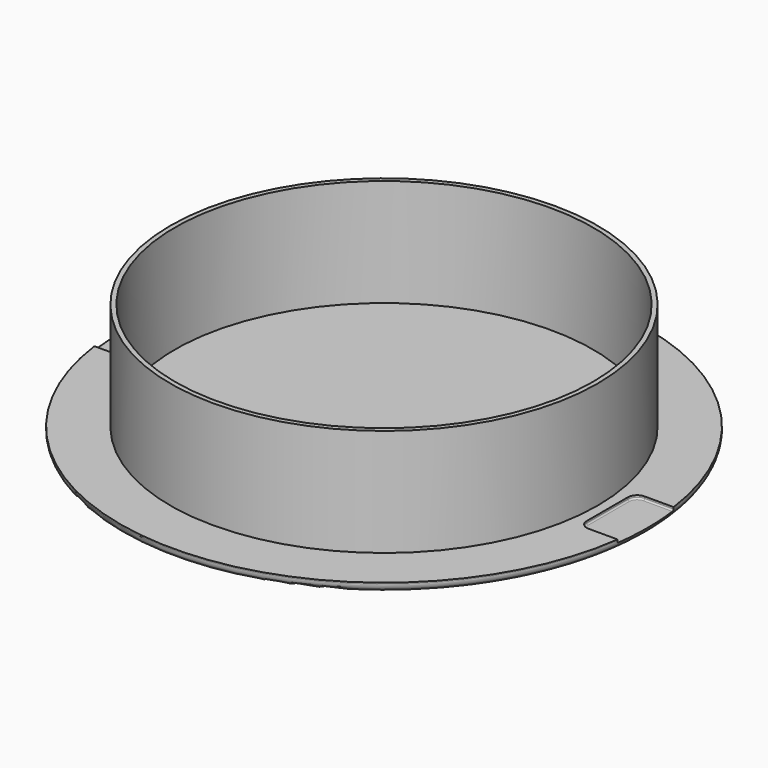
from build123d import *

# Parameters (mm, degrees)
SKETCH_R      = 56.5
PAD_DEPTH     = 2
FILLET_R      = 1.7
SKETCH001_R   = 45.75
SKETCH001_R_2 = 44.75
PAD001_DEPTH  = 23
POCKET_DEPTH  = 0.7
FILLET001_R   = 0.3


with BuildPart() as part:
    # Sketch → Pad (new body)
    with BuildSketch(Plane.XY):
        Circle(SKETCH_R)
    extrude(amount=PAD_DEPTH)

    # Fillet
    fillet_edges = [part.edges().sort_by_distance(p)[0] for p in [
        (-56.5, 0, 0),
    ]]
    fillet(fillet_edges, radius=FILLET_R)

    # Sketch001 (on Face3 of Fillet) → Pad001 (join)
    with BuildSketch(Plane.XY.offset(2)):
        Circle(SKETCH001_R)
        Circle(SKETCH001_R_2, mode=Mode.SUBTRACT)
    extrude(amount=PAD001_DEPTH)

    # Sketch002 (on Face3 of Pad001) → Pocket (cut)
    with BuildSketch(Plane.XY.offset(2)):
        with BuildLine():
            Line((-64, 7.5), (-49.8, 7.5))
            ThreePointArc((-47.8, 5.5), (-48.385786, 6.914214), (-49.8, 7.5))
            Line((-47.8, 5.5), (-47.8, -5.5))
            ThreePointArc((-49.8, -7.5), (-48.385786, -6.914214), (-47.8, -5.5))
            Line((-49.8, -7.5), (-64, -7.5))
            Line((-64, -7.5), (-64, 7.5))
        make_face()
        with BuildLine():
            Line((49.8, 7.5), (64.06, 7.5))
            Line((64.06, 7.5), (64.06, -7.5))
            Line((64.06, -7.5), (49.8, -7.5))
            ThreePointArc((47.8, -5.5), (48.385786, -6.914214), (49.8, -7.5))
            Line((47.8, -5.5), (47.8, 5.5))
            ThreePointArc((49.8, 7.5), (48.385786, 6.914214), (47.8, 5.5))
        make_face()
    extrude(amount=-POCKET_DEPTH, mode=Mode.SUBTRACT)

    # Fillet001
    fillet001_edges = [part.edges().sort_by_distance(p)[0] for p in [
        (52.875922, 7.5, 1.3),
        (48.385786, 6.914214, 1.3),
        (47.8, 0, 1.3),
        (48.385786, -6.914214, 1.3),
        (52.875922, -7.5, 1.3),
        (-52.875922, 7.5, 1.3),
        (-48.385786, 6.914214, 1.3),
        (-47.8, 0, 1.3),
        (-48.385786, -6.914214, 1.3),
        (-52.875922, -7.5, 1.3),
    ]]
    fillet(fillet001_edges, radius=FILLET001_R)


solid = part.part
